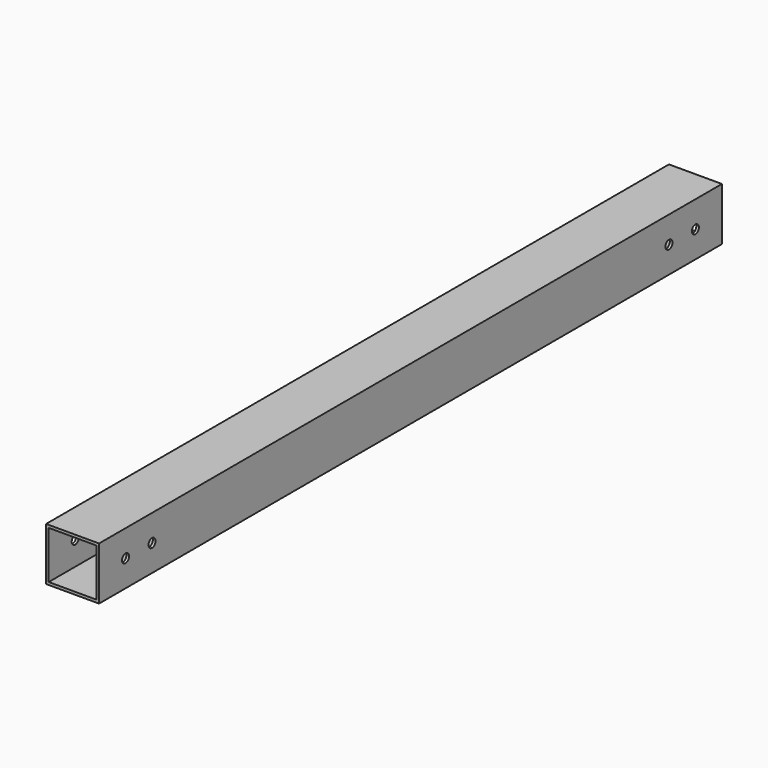
from build123d import *

# Parameters (mm, degrees)
SKETCH_W    = 40
SKETCH_H    = 40
SKETCH_W_2  = 36
SKETCH_H_2  = 36
PAD_DEPTH   = 588
SKETCH001_R = 3.3
HOLE_DEPTH  = 40.001


with BuildPart() as part:
    # Sketch → Pad (new body)
    with BuildSketch(Plane.XZ):
        Rectangle(SKETCH_W, SKETCH_H)
        Rectangle(SKETCH_W_2, SKETCH_H_2, mode=Mode.SUBTRACT)
    extrude(amount=PAD_DEPTH)

    # Sketch001 → Hole (cut, through all)
    with BuildSketch(Plane(origin=(20, 0, 0), x_dir=(0, 0, 1), z_dir=(1, 0, 0))):
        with Locations((0, 25)):
            Circle(SKETCH001_R)
        with Locations((0, 563)):
            Circle(SKETCH001_R)
        with Locations((0, 50)):
            Circle(SKETCH001_R)
        with Locations((0, 538)):
            Circle(SKETCH001_R)
    extrude(amount=-HOLE_DEPTH, mode=Mode.SUBTRACT)


solid = part.part
